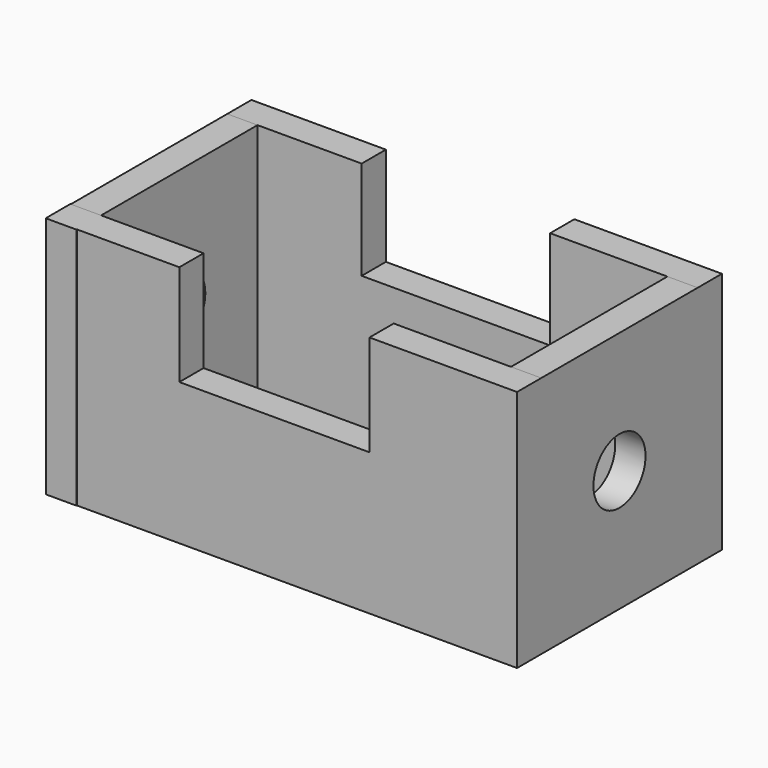
from build123d import *

# Parameters (mm, degrees)
F1_DEPTH = 6.35
F2_W     = 53.70532
F2_H     = 50.970227
F3_DEPTH = 6.35
F5_DEPTH = 6.35
F6_W     = 53.81282
F6_H     = 50.970227
F7_DEPTH = 6.35
F8_R     = 6.825796
F9_DEPTH = 98.776647


with BuildPart() as f1:
    # F0 (on Front) → F1 (new body)
    with BuildSketch(Plane.XZ):
        Polygon((-28.880332, 50.970227), (-50.351799, 50.970227), (-50.351799, 0), (48.423848, 0), (48.423848, 50.970227), (25.479974, 50.970227), (17.470775, 50.970227), (17.470775, 29.770507), (-22.404809, 29.770507), (-22.404809, 50.970227), align=None)
    extrude(amount=F1_DEPTH)

    # F2 (on face) → F3 (join)
    with BuildSketch(Plane.YZ.offset(48.423848)):
        with Locations((20.50266, 25.485113)):
            Rectangle(F2_W, F2_H)
    extrude(amount=-F3_DEPTH)

    # F4 (on face) → F5 (join)
    with BuildSketch(Plane(origin=(0, 47.35532, 0), x_dir=(-1, 0, 0), z_dir=(0, 1, 0))):
        Polygon((-17.472064, 50.970227), (-48.423848, 50.970227), (-48.423848, 0), (50.247245, 0), (50.247245, 50.970227), (22.050951, 50.970227), (22.050951, 30.244745), (-17.472064, 30.244745), align=None)
    extrude(amount=-F5_DEPTH)

    # F6 (on face) → F7 (join)
    with BuildSketch(Plane(origin=(-50.247245, 0, 0), x_dir=(0, -1, 0), z_dir=(-1, 0, 0))):
        with Locations((-20.44891, 25.485113)):
            Rectangle(F6_W, F6_H)
    extrude(amount=-F7_DEPTH)

    # F8 (on face) → F9 (cut, through all)
    with BuildSketch(Plane.YZ.offset(48.423848)):
        with Locations((20.50266, 25.485113)):
            Circle(F8_R)
    extrude(amount=-F9_DEPTH, mode=Mode.SUBTRACT)


solid = f1.part
